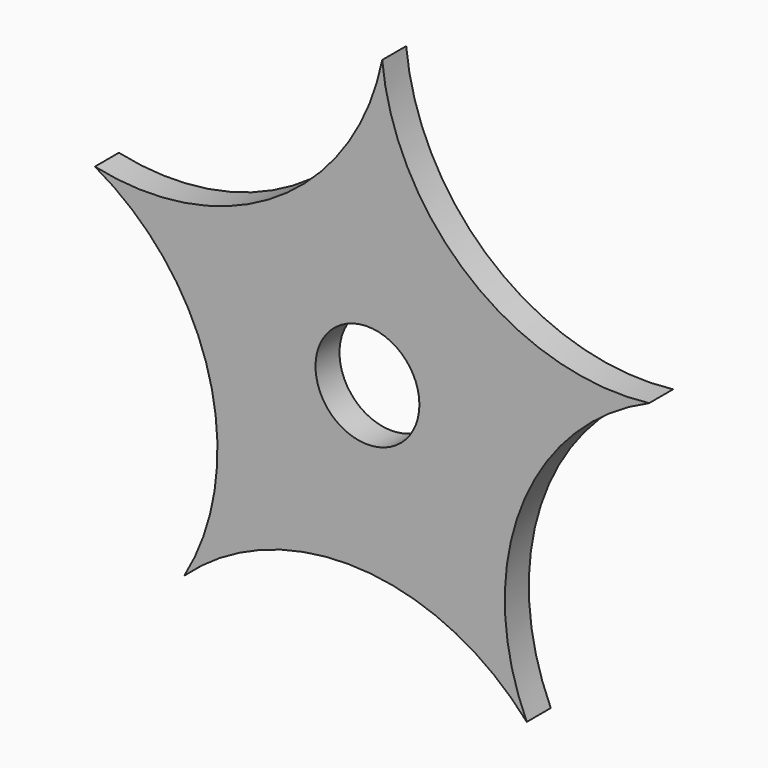
from build123d import *

# Parameters (mm, degrees)
F0_R     = 10.9982
F1_DEPTH = 6.35


with BuildPart() as f1:
    # F0 (on Front) → F1 (new body)
    with BuildSketch(Plane.XZ):
        with BuildLine():
            ThreePointArc((3.120614, 61.683006), (-18.952567, 29.068953), (-57.699702, 22.028977))
            ThreePointArc((-57.699702, 22.028977), (-33.502883, -9.042162), (-38.780991, -48.06835))
            ThreePointArc((-38.780991, -48.06835), (-1.753353, -34.657317), (33.731732, -51.736851))
            ThreePointArc((33.731732, -51.736851), (32.419251, -12.377238), (59.628348, 16.093217))
            ThreePointArc((59.628348, 16.093217), (21.789552, 27.007763), (3.120614, 61.683006))
        make_face()
        Circle(F0_R, mode=Mode.SUBTRACT)
    extrude(amount=F1_DEPTH)


solid = f1.part
